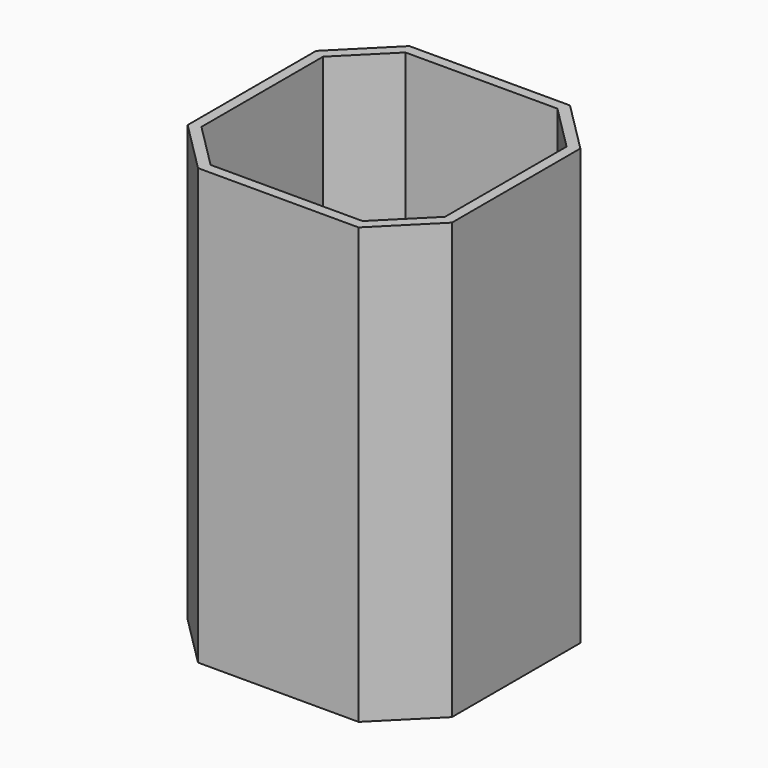
from build123d import *

# Parameters (mm, degrees)
F0_W      = 64.756296
F0_H      = 64.756296
F1_DEPTH  = 53.34
F1_FACE_W = 64.756296
F1_FACE_H = 64.756296
F2_DEPTH  = 53.34
F3_SIZE   = 12.7
F4_SIZE   = 12.7
F5_SIZE   = 12.7
F6_SIZE   = 12.7
F7_T      = -2.54


with BuildPart() as f1:
    # F0 (on Top) → F1 (new body)
    with BuildSketch(Plane.XY):
        Rectangle(F0_W, F0_H)
    extrude(amount=F1_DEPTH)

    # F1_face (on face) → F2 (join)
    with BuildSketch(Plane(origin=(0, 0, 0), x_dir=(1, 0, 0), z_dir=(0, 0, -1))):
        Rectangle(F1_FACE_W, F1_FACE_H)
    extrude(amount=F2_DEPTH)

    # F3
    f3_edges = [f1.edges().sort_by_distance(p)[0] for p in [
        (-32.378148, -32.378148, 0),
    ]]
    chamfer(f3_edges, length=F3_SIZE)

    # F4
    f4_edges = [f1.edges().sort_by_distance(p)[0] for p in [
        (-32.378148, 32.378148, 0),
    ]]
    chamfer(f4_edges, length=F4_SIZE)

    # F5
    f5_edges = [f1.edges().sort_by_distance(p)[0] for p in [
        (32.378148, 32.378148, 0),
    ]]
    chamfer(f5_edges, length=F5_SIZE)

    # F6
    f6_edges = [f1.edges().sort_by_distance(p)[0] for p in [
        (32.378148, -32.378148, 0),
    ]]
    chamfer(f6_edges, length=F6_SIZE)

    # F7
    f7_openings = [f1.faces().sort_by_distance(p)[0] for p in [
        (0, 0, 53.34),
    ]]
    offset(amount=F7_T, openings=f7_openings)


solid = f1.part
